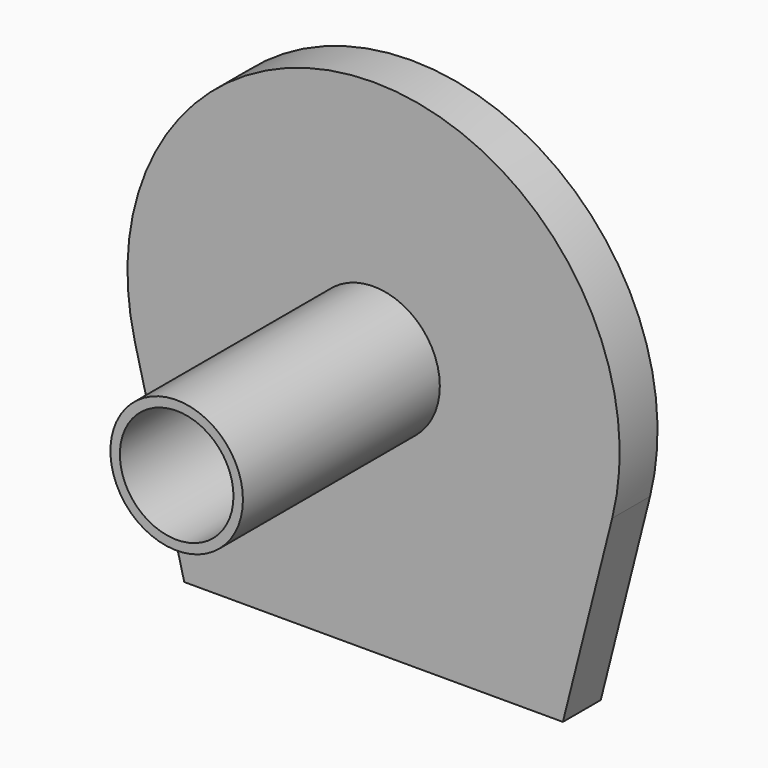
from build123d import *

# Parameters (mm, degrees)
F0_R     = 3
F1_DEPTH = 2.5
F2_R     = 3.5
F2_R_2   = 3
F3_DEPTH = 13


with BuildPart() as f1:
    # F0 (on Front) → F1 (new body)
    with BuildSketch(Plane.XZ):
        with BuildLine():
            Line((10, -13.5), (12.604617, -3.181765))
            ThreePointArc((12.604617, -3.181765), (0, 13), (-12.604617, -3.181765))
            Line((-12.604617, -3.181765), (-10, -13.5))
            Line((-10, -13.5), (10, -13.5))
        make_face()
        Circle(F0_R, mode=Mode.SUBTRACT)
    extrude(amount=F1_DEPTH)

    # F2 (on face) → F3 (join)
    with BuildSketch(Plane.XZ.offset(2.5)):
        Circle(F2_R)
        Circle(F2_R_2, mode=Mode.SUBTRACT)
    extrude(amount=F3_DEPTH)


solid = f1.part
